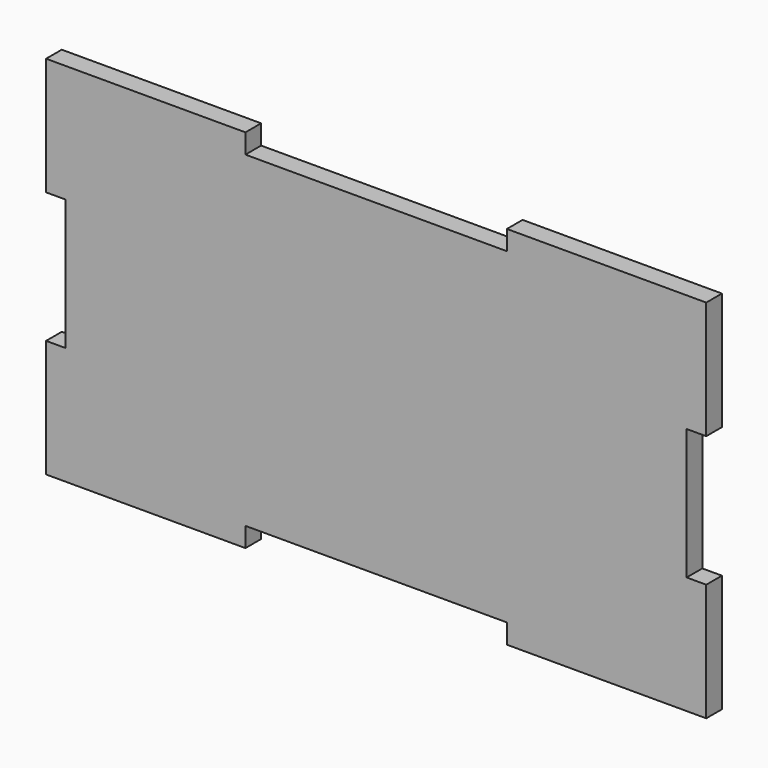
from build123d import *

# Parameters (mm, degrees)
F1_DEPTH = 3


with BuildPart() as f1:
    # F0 (on Front) → F1 (new body)
    with BuildSketch(Plane.XZ):
        Polygon((20, 25), (0, 25), (-20, 25), (-20, 28), (-50.5, 28), (-50.5, 10), (-47.5, 10), (-47.5, 0), (-47.5, -10), (-50.5, -10), (-50.5, -28), (-20, -28), (-20, -25), (0, -25), (20, -25), (20, -28), (50.5, -28), (50.5, -10), (47.5, -10), (47.5, 0), (47.5, 10), (50.5, 10), (50.5, 28), (20, 28), align=None)
    extrude(amount=F1_DEPTH)


solid = f1.part
